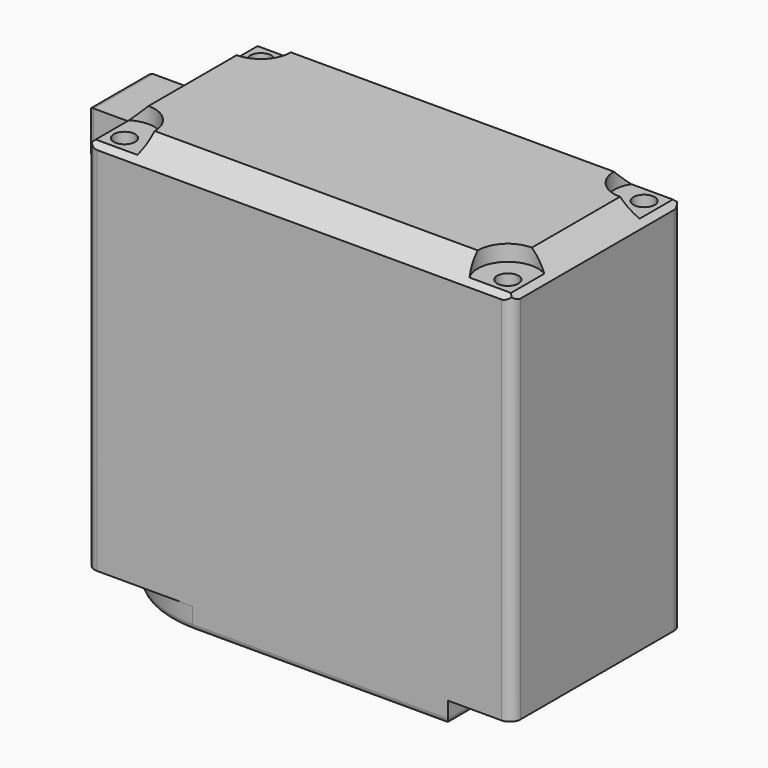
from build123d import *

# Parameters (mm, degrees)
SKETCH_W        = 40
SKETCH_H        = 20
PAD_DEPTH       = 36.8
CHAMFER_SIZE    = 2
CHAMFER001_SIZE = 2
CHAMFER002_SIZE = 2
CHAMFER003_SIZE = 2
SKETCH001_R     = 2.828427
POCKET_DEPTH    = 1.5
SKETCH002_R     = 1
POCKET001_DEPTH = 5
SKETCH003_R     = 10
PAD001_DEPTH    = 2
SKETCH004_W     = 24
SKETCH004_H     = 20
PAD002_DEPTH    = 2
PAD003_DEPTH    = 2
FILLET_R        = 1
FILLET001_R     = 1
FILLET002_R     = 1
FILLET003_R     = 1
FILLET004_R     = 0.5
SKETCH006_R     = 6.5
PAD004_DEPTH    = 2
FILLET005_R     = 0.5
SKETCH007_W     = 7
SKETCH007_H     = 4
PAD005_DEPTH    = 5
FILLET006_R     = 0.5


with BuildPart() as part:
    # Sketch → Pad (new body)
    with BuildSketch(Plane.XY):
        with Locations((10, 0)):
            Rectangle(SKETCH_W, SKETCH_H)
    extrude(amount=PAD_DEPTH)

    # Chamfer
    chamfer_edges = [part.edges().sort_by_distance(p)[0] for p in [
        (10, 10, 36.8),
    ]]
    chamfer(chamfer_edges, length=CHAMFER_SIZE)

    # Chamfer001
    chamfer001_edges = [part.edges().sort_by_distance(p)[0] for p in [
        (10, -10, 36.8),
    ]]
    chamfer(chamfer001_edges, length=CHAMFER001_SIZE)

    # Chamfer002
    chamfer002_edges = [part.edges().sort_by_distance(p)[0] for p in [
        (30, 0, 36.8),
    ]]
    chamfer(chamfer002_edges, length=CHAMFER002_SIZE)

    # Chamfer003
    chamfer003_edges = [part.edges().sort_by_distance(p)[0] for p in [
        (-10, 0, 36.8),
    ]]
    chamfer(chamfer003_edges, length=CHAMFER003_SIZE)

    # Sketch001 (on Face1 of Chamfer003) → Pocket (cut)
    with BuildSketch(Plane.XY.offset(36.8)):
        with Locations((-8, 8)):
            Circle(SKETCH001_R)
        with Locations((28, 8)):
            Circle(SKETCH001_R)
        with Locations((28, -8)):
            Circle(SKETCH001_R)
        with Locations((-8, -8)):
            Circle(SKETCH001_R)
    extrude(amount=-POCKET_DEPTH, mode=Mode.SUBTRACT)

    # Sketch002 (on Face1 of Pocket) → Pocket001 (cut)
    with BuildSketch(Plane.XY.offset(36.8)):
        with Locations((-8, 8)):
            Circle(SKETCH002_R)
        with Locations((28, 8)):
            Circle(SKETCH002_R)
        with Locations((-8, -8)):
            Circle(SKETCH002_R)
        with Locations((28, -8)):
            Circle(SKETCH002_R)
    extrude(amount=-POCKET001_DEPTH, mode=Mode.SUBTRACT)

    # Sketch003 (on Face21 of Pocket001) → Pad001 (join)
    with BuildSketch(Plane(origin=(0, 0, 0), x_dir=(1, 0, 0), z_dir=(0, 0, -1))):
        Circle(SKETCH003_R)
    extrude(amount=PAD001_DEPTH)

    # Sketch004 (on Face21 of Pad001) → Pad002 (join)
    with BuildSketch(Plane(origin=(0, 0, 0), x_dir=(1, 0, 0), z_dir=(0, 0, -1))):
        with Locations((12, 0)):
            Rectangle(SKETCH004_W, SKETCH004_H)
    extrude(amount=PAD002_DEPTH)

    # Sketch005 (on Face17 of Pad002) → Pad003 (join)
    with BuildSketch(Plane(origin=(0, 0, 0), x_dir=(1, 0, 0), z_dir=(0, 0, -1))):
        with BuildLine():
            ThreePointArc((24, -4.5), (27.609772, 0), (24, 4.5))
            Line((24, 4.5), (24, -4.5))
        make_face()
    extrude(amount=PAD003_DEPTH)

    # Fillet
    fillet_edges = [part.edges().sort_by_distance(p)[0] for p in [
        (30, -10, 17.4),
    ]]
    fillet(fillet_edges, radius=FILLET_R)

    # Fillet001
    fillet001_edges = [part.edges().sort_by_distance(p)[0] for p in [
        (30, 10, 17.4),
    ]]
    fillet(fillet001_edges, radius=FILLET001_R)

    # Fillet002
    fillet002_edges = [part.edges().sort_by_distance(p)[0] for p in [
        (-10, -10, 17.4),
    ]]
    fillet(fillet002_edges, radius=FILLET002_R)

    # Fillet003
    fillet003_edges = [part.edges().sort_by_distance(p)[0] for p in [
        (-10, 10, 17.4),
    ]]
    fillet(fillet003_edges, radius=FILLET003_R)

    # Fillet004
    fillet004_edges = [part.edges().sort_by_distance(p)[0] for p in [
        (12, 10, -2),
        (24, 7.25, -2),
        (27.609772, 0, -2),
        (24, -7.25, -2),
        (12, -10, -2),
        (-10, 0, -2),
    ]]
    fillet(fillet004_edges, radius=FILLET004_R)

    # Sketch006 (on Face14 of Fillet004) → Pad004 (join)
    with BuildSketch(Plane(origin=(0, 0, -2), x_dir=(1, 0, 0), z_dir=(0, 0, -1))):
        Circle(SKETCH006_R)
    extrude(amount=PAD004_DEPTH)

    # Fillet005
    fillet005_edges = [part.edges().sort_by_distance(p)[0] for p in [
        (-6.5, 0, -4),
    ]]
    fillet(fillet005_edges, radius=FILLET005_R)

    # Sketch007 (on Face26 of Fillet005) → Pad005 (join)
    with BuildSketch(Plane(origin=(-10, 0, 0), x_dir=(0, -1, 0), z_dir=(-1, 0, 0))):
        with Locations((0, 31.8)):
            Rectangle(SKETCH007_W, SKETCH007_H)
    extrude(amount=PAD005_DEPTH)

    # Fillet006
    fillet006_edges = [part.edges().sort_by_distance(p)[0] for p in [
        (-15, 0, 33.8),
        (-15, -3.5, 31.8),
        (-15, 0, 29.8),
        (-15, 3.5, 31.8),
    ]]
    fillet(fillet006_edges, radius=FILLET006_R)


solid = part.part
